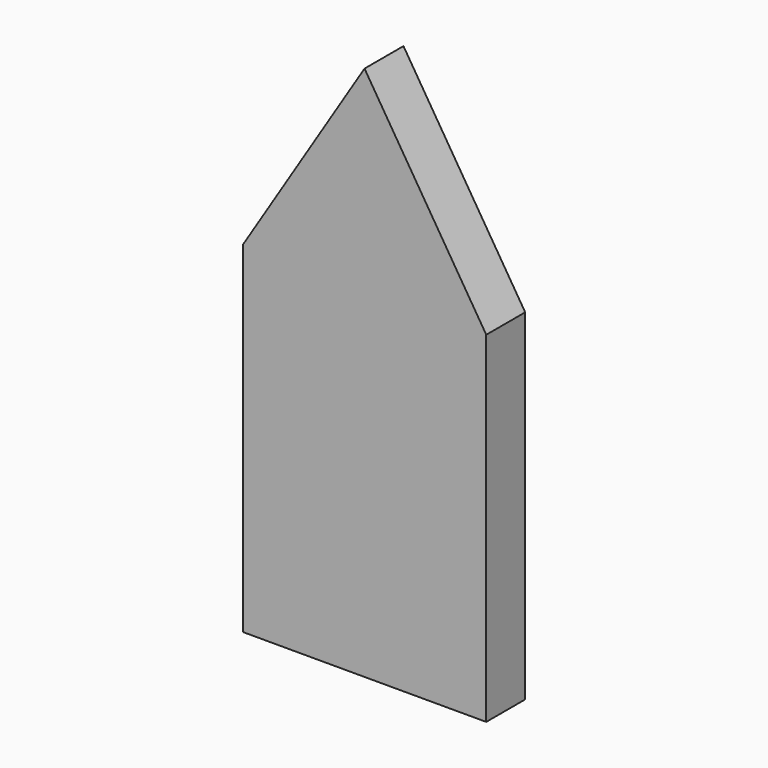
from build123d import *

# Parameters (mm, degrees)
F0_W     = 63.5
F0_H     = 139.7
F1_DEPTH = 12.7
F3_DEPTH = 25.4
F4_R     = 3.175
F5_DEPTH = 25.4


with BuildPart() as f1:
    # F0 (on Front) → F1 (new body)
    with BuildSketch(Plane.XZ):
        with Locations((-20.063438, 21.341896)):
            Rectangle(F0_W, F0_H)
    extrude(amount=F1_DEPTH)

    # F2 (on face) → F3 (cut)
    with BuildSketch(Plane.XZ.offset(12.7)):
        Polygon((-51.813438, 40.391896), (-20.063438, 91.191896), (-51.813438, 91.191896), align=None)
        Polygon((11.686562, 91.191896), (-20.063438, 91.191896), (11.686562, 40.391896), align=None)
    extrude(amount=-F3_DEPTH, mode=Mode.SUBTRACT)

    # F4 (on face) → F5 (cut)
    with BuildSketch(Plane(origin=(0, 0, -48.508104), x_dir=(1, 0, 0), z_dir=(0, 0, -1))):
        with Locations((-19.809052, 6.35)):
            Circle(F4_R)
    extrude(amount=-F5_DEPTH, mode=Mode.SUBTRACT)


solid = f1.part
